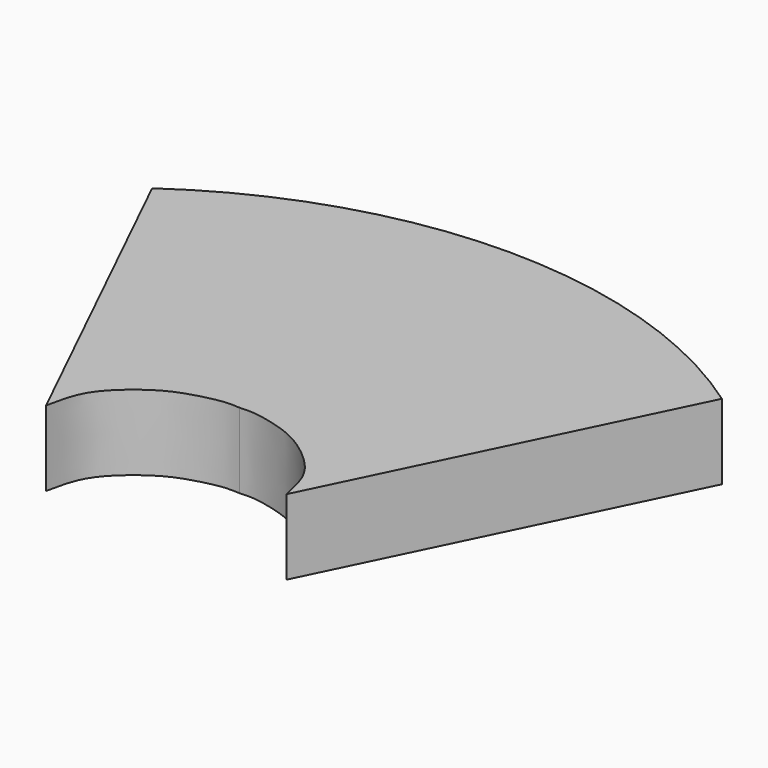
from build123d import *

# Parameters (mm, degrees)
F1_DEPTH = 12.7


with BuildPart() as f1:
    # F0 (on Top) → F1 (new body)
    with BuildSketch(Plane.XY):
        with BuildLine():
            Line((-48.0569601773, 57.0973812082), (-20.2695698866, 0))
            add(Edge.make_bspline(
                [(-20.2695698866, 0), (-19.8837383196, 1.8689279487), (-19.1305339751, 5.517371391), (-15.8709178776, 9.4542522079), (-11.2339144066, 12.9828806673), (-7.1036049518, 14.5142642709), (-2.6390539178, 15.5788728169), (-0.7947963791, 15.4652559517), (0, 15.4162919263)],
                knots=[0, 0, 0, 0, 0.1834683369, 0.3581592597, 0.5443777539, 0.7101356713, 0.8750808312, 1, 1, 1, 1], degree=3))
            add(Edge.make_bspline(
                [(20.2695698866, 0), (19.8837383196, 1.8689279487), (19.1305339751, 5.517371391), (15.8709178776, 9.4542522079), (11.2339144066, 12.9828806673), (7.1036049518, 14.5142642709), (2.6390539178, 15.5788728169), (0.7947963791, 15.4652559517), (0, 15.4162919263)],
                knots=[0, 0, 0, 0, 0.1834683369, 0.3581592597, 0.5443777539, 0.7101356713, 0.8750808312, 1, 1, 1, 1], degree=3))
            Line((20.2695698866, 0), (48.0569601773, 57.0973812082))
            ThreePointArc((48.0569601773, 57.0973812082), (0, 72.2788079235), (-48.0569601773, 57.0973812082))
        make_face()
    extrude(amount=F1_DEPTH)


solid = f1.part
